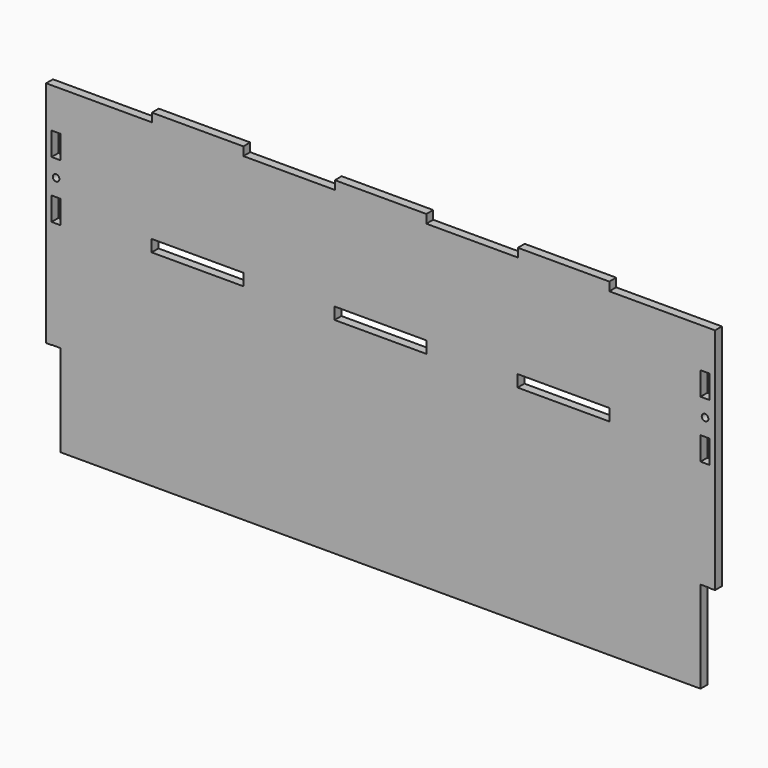
from build123d import *

# Parameters (mm, degrees)
F0_R     = 1.8415
F0_W     = 51.054
F0_H     = 6.604
F0_W_2   = 50.8
F0_H_2   = 4.7625
F1_DEPTH = 4.7625


with BuildPart() as f1:
    # F0 (on Front) → F1 (new body)
    with BuildSketch(Plane.XZ):
        Polygon((-127, 88.9), (-182.5625, 88.9), (-182.5625, 66.802), (-177.673, 66.802), (-177.673, 53.848), (-182.5625, 53.848), (-182.5625, 35.052), (-177.673, 35.052), (-177.673, 22.098), (-182.5625, 22.098), (-182.5625, -37.973), (-177.673, -37.973), (-177.673, -88.9), (177.673, -88.9), (177.673, -37.973), (182.5625, -37.973), (182.5625, 22.098), (177.673, 22.098), (177.673, 35.052), (182.5625, 35.052), (182.5625, 53.848), (177.673, 53.848), (177.673, 66.802), (182.5625, 66.802), (182.5625, 88.9), (127, 88.9), (76.2, 88.9), (25.4, 88.9), (-25.4, 88.9), (-76.2, 88.9), align=None)
        with Locations((-180.18125, 44.45)):
            Circle(F0_R, mode=Mode.SUBTRACT)
        with Locations((-101.6, 28.575)):
            Rectangle(F0_W, F0_H, mode=Mode.SUBTRACT)
        with Locations((0, 28.575)):
            Rectangle(F0_W, F0_H, mode=Mode.SUBTRACT)
        with Locations((101.6, 28.575)):
            Rectangle(F0_W, F0_H, mode=Mode.SUBTRACT)
        with Locations((180.18125, 44.45)):
            Circle(F0_R, mode=Mode.SUBTRACT)
        with Locations((-101.6, 91.28125)):
            Rectangle(F0_W_2, F0_H_2)
        with Locations((0, 91.28125)):
            Rectangle(F0_W_2, F0_H_2)
        with Locations((101.6, 91.28125)):
            Rectangle(F0_W_2, F0_H_2)
        Polygon((-182.5625, 66.802), (-182.5625, 88.9), (-185.7375, 88.9), (-185.7375, -38.1), (-182.6895, -38.1), (-182.6895, -37.973), (-182.5625, -37.973), (-182.5625, 22.098), (-182.6895, 22.098), (-182.6895, 35.052), (-182.5625, 35.052), (-182.5625, 53.848), (-182.6895, 53.848), (-182.6895, 66.802), align=None)
        Polygon((185.7375, 88.9), (182.5625, 88.9), (182.5625, 66.802), (182.6895, 66.802), (182.6895, 53.848), (182.5625, 53.848), (182.5625, 35.052), (182.6895, 35.052), (182.6895, 22.098), (182.5625, 22.098), (182.5625, -37.973), (182.6895, -37.973), (182.6895, -38.1), (185.7375, -38.1), align=None)
    extrude(amount=F1_DEPTH)


solid = f1.part
